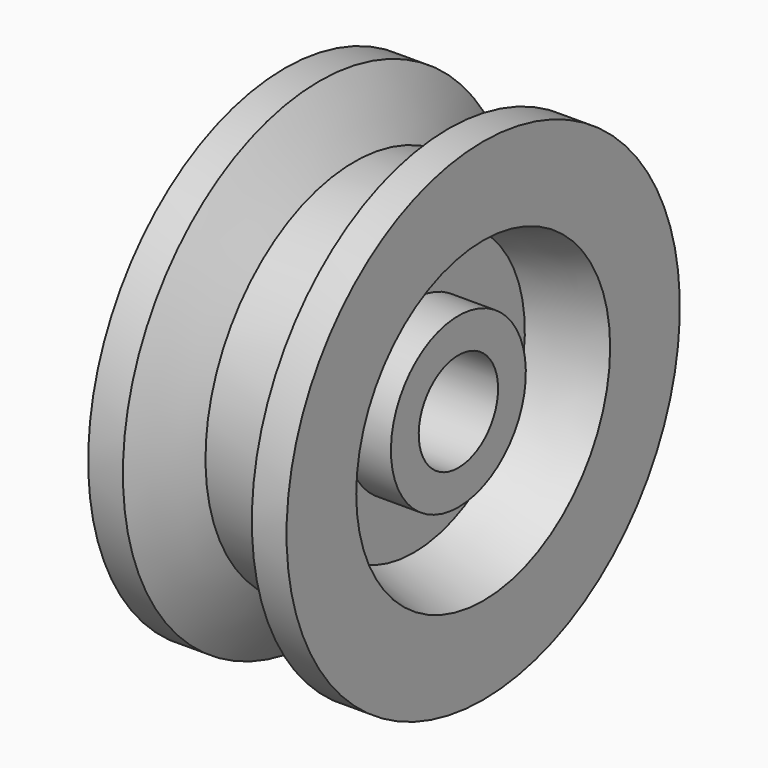
from build123d import *


with BuildPart() as f1:
    # F0 (on Front) → F1 (revolve)
    with BuildSketch(Plane.XZ):
        Polygon((15, -10), (-15, -10), (-15, -17), (-6, -17), (-6, -28), (-20, -32), (-20, -49.563356), (-13, -49.563356), (-6, -37.5), (6, -37.5), (13, -49.563356), (20, -49.563356), (20, -32), (6, -28), (6, -17), (15, -17), align=None)
    revolve(axis=Axis((3.753301, 0, 0), (1, 0, 0)))


solid = f1.part
